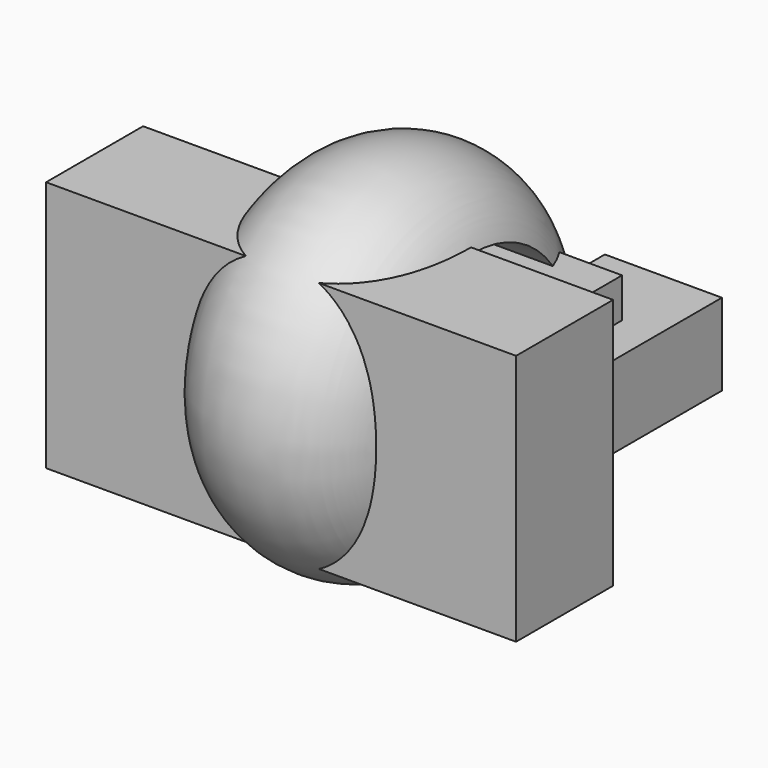
from build123d import *

# Parameters (mm, degrees)
F0_W     = 96.895166
F0_H     = 51.89516
F1_DEPTH = 25
F2_W     = 60.604836
F2_H     = 28.669358
F3_DEPTH = 25
F4_W     = 19.05242
F4_H     = 12.520161
F4_W_2   = 24.133065
F4_H_2   = 16.875
F5_DEPTH = 66.2


with BuildPart() as f1:
    # F0 (on Front) → F1 (new body)
    with BuildSketch(Plane.XZ):
        Rectangle(F0_W, F0_H)
    extrude(amount=F1_DEPTH)

    # F2 (on Front) → F3 (join)
    with BuildSketch(Plane.XZ):
        Rectangle(F2_W, F2_H)
    extrude(amount=-F3_DEPTH)

    # F4 (on face) → F5 (join)
    with BuildSketch(Plane.XZ.offset(25)):
        with Locations((-16.421372, -0.272178)):
            Rectangle(F4_W, F4_H)
        with Locations((25.856855, -2.268145)):
            Rectangle(F4_W_2, F4_H_2)
    extrude(amount=-F5_DEPTH)

    # F6 (on Top) → F7 (revolve)
    with BuildSketch(Plane.XY):
        with BuildLine():
            Line((-19.05242, 25.040325), (19.596776, 25.040325))
            ThreePointArc((19.596776, 25.040325), (0.272178, 37.411746), (-19.05242, 25.040325))
        make_face()
    revolve(axis=Axis((-1.814518, 0, 0), (1, 0, 0)))


solid = f1.part
